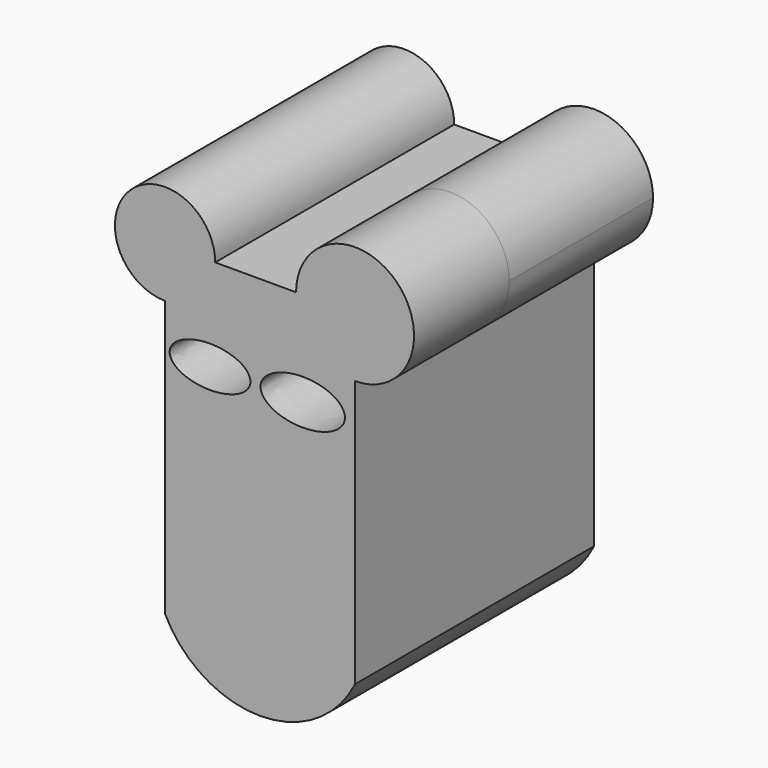
from build123d import *

# Parameters (mm, degrees)
F1_DEPTH = 38.354
F3_DEPTH = 25.4


with BuildPart() as f1:
    # F0 (on Front) → F1 (new body)
    with BuildSketch(Plane.XZ):
        with BuildLine():
            Line((-18.6069775373, 25.2416362296), (-18.6069775373, 35.9408445656))
            Line((-18.6069775373, 35.9408445656), (-7.9077692012, 35.9408445656))
            ThreePointArc((-7.9077692012, 35.9408445656), (-26.172460305, 43.5063273334), (-18.6069775373, 25.2416362296))
        make_face()
        with BuildLine():
            Line((-7.9077692012, 35.9408445656), (-18.6069775373, 35.9408445656))
            Line((-18.6069775373, 35.9408445656), (-18.6069775373, 25.2416362296))
            ThreePointArc((-18.6069775373, 25.2416362296), (-11.0414947695, 28.3753617979), (-7.9077692012, 35.9408445656))
        make_face()
        with BuildLine():
            Line((9.3510261745, 35.9408445656), (-7.9077692012, 35.9408445656))
            ThreePointArc((-7.9077692012, 35.9408445656), (-11.0414947695, 28.3753617979), (-18.6069775373, 25.2416362296))
            Line((-18.6069775373, 25.2416362296), (-18.6069775373, -33.5904918611))
            Line((-18.6069775373, -33.5904918611), (21.936647594, -33.5904918611))
            Line((21.936647594, -33.5904918611), (21.936647594, 23.3552231462))
            ThreePointArc((21.936647594, 23.3552231462), (13.0372693428, 27.0414663145), (9.3510261745, 35.9408445656))
        make_face()
        with BuildLine():
            add(Edge.make_bspline(
                [(-0.3917254508, 15.9628279507), (-0.3917254508, 23.5224868497), (-13.3186778985, 19.7426574002), (-26.2456303462, 15.9628279507), (-13.3186778985, 12.1829985012), (-0.3917254508, 8.4031690518), (-0.3917254508, 15.9628279507)],
                knots=[0, 0, 0, 2.0943951024, 2.0943951024, 4.1887902048, 4.1887902048, 6.2831853072, 6.2831853072, 6.2831853072], degree=2, weights=[1, 0.5, 1, 0.5, 1, 0.5, 1]))
        make_face(mode=Mode.SUBTRACT)
        with BuildLine():
            add(Edge.make_bspline(
                [(1.7627654597, 15.7669633627), (1.7627654597, 7.4887963643), (15.2773074806, 11.6278798635), (28.7918495014, 15.7669633627), (15.2773074806, 19.9060468619), (1.7627654597, 24.0451303611), (1.7627654597, 15.7669633627)],
                knots=[0, 0, 0, 2.0943951024, 2.0943951024, 4.1887902048, 4.1887902048, 6.2831853072, 6.2831853072, 6.2831853072], degree=2, weights=[1, 0.5, 1, 0.5, 1, 0.5, 1]))
        make_face(mode=Mode.SUBTRACT)
        with BuildLine():
            ThreePointArc((34.5222690135, 35.9408445656), (21.936647594, 48.5264659851), (9.3510261745, 35.9408445656))
            Line((9.3510261745, 35.9408445656), (21.936647594, 35.9408445656))
            Line((21.936647594, 35.9408445656), (21.936647594, 23.3552231462))
            ThreePointArc((21.936647594, 23.3552231462), (30.8360258451, 27.0414663145), (34.5222690135, 35.9408445656))
        make_face()
        with BuildLine():
            Line((21.936647594, 35.9408445656), (9.3510261745, 35.9408445656))
            ThreePointArc((9.3510261745, 35.9408445656), (13.0372693428, 27.0414663145), (21.936647594, 23.3552231462))
            Line((21.936647594, 23.3552231462), (21.936647594, 35.9408445656))
        make_face()
        with BuildLine():
            ThreePointArc((21.936647594, -33.5904918611), (1.6648350284, -37.9458384441), (-18.6069775373, -33.5904918611))
            ThreePointArc((-18.6069775373, -33.5904918611), (1.6648350284, -46.1443278673), (21.936647594, -33.5904918611))
        make_face()
        with BuildLine():
            Line((21.936647594, -33.5904918611), (-18.6069775373, -33.5904918611))
            ThreePointArc((-18.6069775373, -33.5904918611), (1.6648350284, -37.9458384441), (21.936647594, -33.5904918611))
        make_face()
    extrude(amount=F1_DEPTH)

    # F2 (on face) → F3 (join)
    with BuildSketch(Plane.XZ.offset(38.354)):
        with BuildLine():
            Line((9.3510261745, 35.9408445656), (-7.9077692012, 35.9408445656))
            ThreePointArc((-7.9077692012, 35.9408445656), (-26.172460305, 43.5063273334), (-18.6069775373, 25.2416362296))
            Line((-18.6069775373, 25.2416362296), (-18.6069775373, -33.5904918611))
            ThreePointArc((-18.6069775373, -33.5904918611), (1.6648350284, -46.1443278673), (21.936647594, -33.5904918611))
            Line((21.936647594, -33.5904918611), (21.936647594, 23.3552231462))
            ThreePointArc((21.936647594, 23.3552231462), (30.8360258451, 44.8402228168), (9.3510261745, 35.9408445656))
        make_face()
        with BuildLine():
            add(Edge.make_bspline(
                [(-0.3917254508, 15.9628279507), (-0.3917254508, 23.5224868497), (-13.3186778985, 19.7426574002), (-26.2456303462, 15.9628279507), (-13.3186778985, 12.1829985012), (-0.3917254508, 8.4031690518), (-0.3917254508, 15.9628279507)],
                knots=[0, 0, 0, 2.0943951024, 2.0943951024, 4.1887902048, 4.1887902048, 6.2831853072, 6.2831853072, 6.2831853072], degree=2, weights=[1, 0.5, 1, 0.5, 1, 0.5, 1]))
        make_face(mode=Mode.SUBTRACT)
        with BuildLine():
            add(Edge.make_bspline(
                [(1.7627654597, 15.7669633627), (1.7627654597, 7.4887963643), (15.2773074806, 11.6278798635), (28.7918495014, 15.7669633627), (15.2773074806, 19.9060468619), (1.7627654597, 24.0451303611), (1.7627654597, 15.7669633627)],
                knots=[0, 0, 0, 2.0943951024, 2.0943951024, 4.1887902048, 4.1887902048, 6.2831853072, 6.2831853072, 6.2831853072], degree=2, weights=[1, 0.5, 1, 0.5, 1, 0.5, 1]))
        make_face(mode=Mode.SUBTRACT)
    extrude(amount=F3_DEPTH)


solid = f1.part
